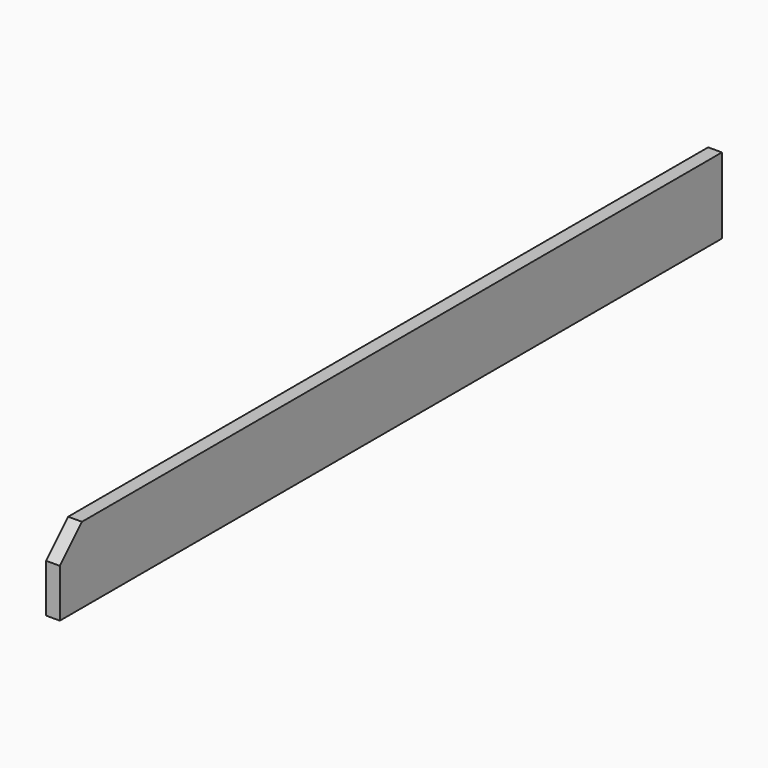
from build123d import *

# Parameters (mm, degrees)
F0_W     = 25.4
F0_H     = 139.7
F1_DEPTH = 1524
F2_SIZE  = 50.8


with BuildPart() as f1:
    # F0 (on Front) → F1 (new body)
    with BuildSketch(Plane.XZ):
        Rectangle(F0_W, F0_H)
    extrude(amount=-F1_DEPTH)

    # F2
    f2_edges = [f1.edges().sort_by_distance(p)[0] for p in [
        (0, 0, 69.85),
    ]]
    chamfer(f2_edges, length=F2_SIZE)


solid = f1.part
